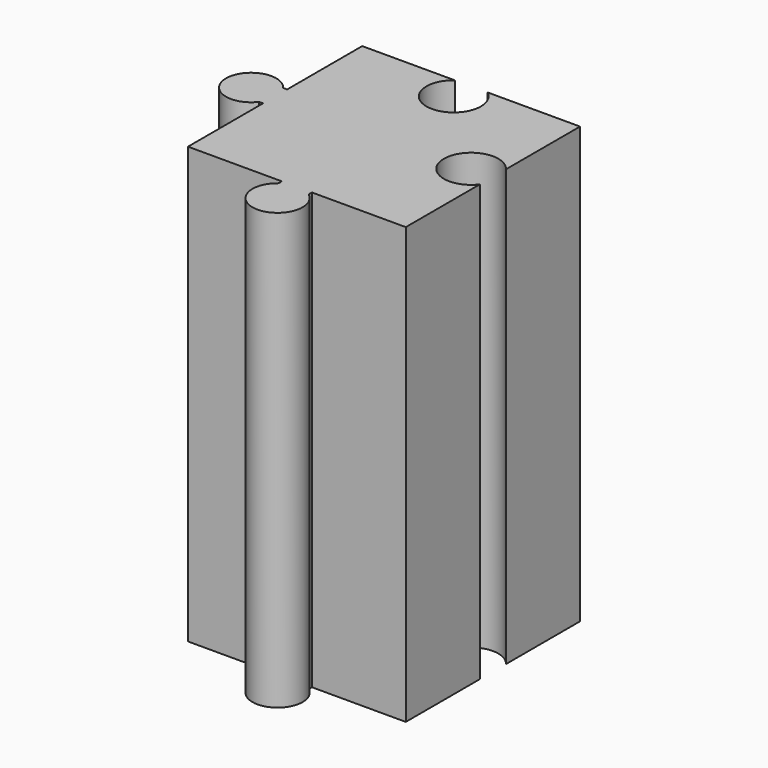
from build123d import *

# Parameters (mm, degrees)
F1_DEPTH = 101.6


with BuildPart() as f1:
    # F0 (on Top) → F1 (new body)
    with BuildSketch(Plane.XY):
        with BuildLine():
            Line((0, 21.894799), (0, 0))
            Line((0, 0), (21.898551, 0))
            Line((21.898551, 0), (21.898551, -0.96253))
            ThreePointArc((21.898551, -0.96253), (25.403751, -11.478131), (28.908951, -0.96253))
            Line((28.908951, -0.96253), (28.908951, 0))
            Line((28.908951, 0), (50.8, 0))
            Line((50.8, 0), (50.8, 21.59))
            ThreePointArc((50.8, 21.59), (39.37, 25.4), (50.8, 29.21))
            Line((50.8, 29.21), (50.8, 50.8))
            Line((50.8, 50.8), (29.21, 50.8))
            ThreePointArc((29.21, 50.8), (25.4, 39.37), (21.59, 50.8))
            Line((21.59, 50.8), (0, 50.8))
            Line((0, 50.8), (0, 28.9052))
            Line((0, 28.9052), (-0.9144, 28.9052))
            ThreePointArc((-0.9144, 28.9052), (-11.430001, 25.4), (-0.9144, 21.894799))
            Line((-0.9144, 21.894799), (0, 21.894799))
        make_face()
    extrude(amount=F1_DEPTH)


solid = f1.part
